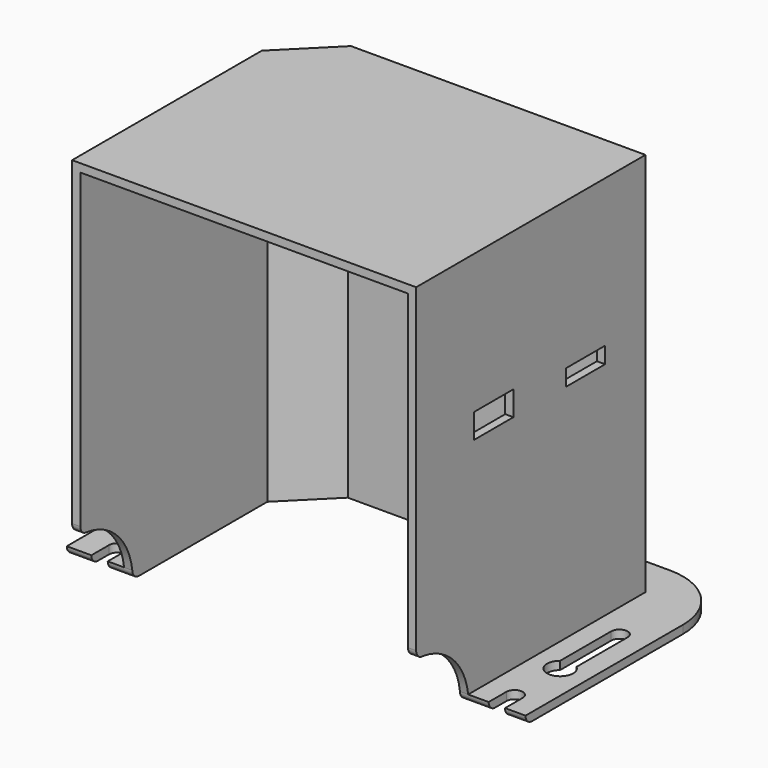
from build123d import *

# Parameters (mm, degrees)
PAD_DEPTH         = 149.225
PAD001_DEPTH      = 3.175
PAD002_DEPTH      = 3.175
POCKET_DEPTH      = 155.6014
POCKET_DEPTH_BACK = 22.226
SKETCH004_W       = 19.05
SKETCH004_H       = 9.525
SKETCH004_H_2     = 6.35
POCKET001_DEPTH   = 3.175
SKETCH005_W       = 41.275
SKETCH005_H       = 19.05
POCKET002_DEPTH   = 111.126


with BuildPart() as part:
    # Sketch → Pad (new body)
    with BuildSketch(Plane.XY):
        Polygon((-133.3754, 0), (-133.3754, 91.9226), (-114.173, 111.125), (0, 111.125), (0, 0), (-3.175, 0), (-3.175, 107.95), (-112.857872, 107.95), (-130.2004, 90.607472), (-130.2004, 0), align=None)
    extrude(amount=PAD_DEPTH)

    # Sketch001 (on Face12 of Pad) → Pad001 (join)
    with BuildSketch(Plane.XY.offset(149.225)):
        Polygon((-114.173, 111.125), (0, 111.125), (0, 0), (-133.3754, 0), (-133.3754, 91.9226), align=None)
    extrude(amount=PAD001_DEPTH)

    # Sketch002 (on Face4 of Pad001) → Pad002 (join)
    with BuildSketch(Plane(origin=(0, 0, 0), x_dir=(1, 0, 0), z_dir=(0, 0, -1))):
        with BuildLine():
            Line((-130.2004, 0), (-130.2004, -90.607472))
            Line((-130.2004, -90.607472), (-112.857872, -107.95))
            Line((-112.857872, -107.95), (-3.175, -107.95))
            Line((-3.175, -107.95), (-3.175, 0))
            Line((-3.175, 0), (6.0325, 0))
            Line((6.0325, 0), (6.0325, -5.08))
            ThreePointArc((6.0325, -5.08), (6.53345, -7.279705), (7.9375, -9.045574))
            Line((7.9375, -9.045574), (7.9375, -33.782))
            ThreePointArc((7.9375, -33.782), (11.1125, -36.957), (14.2875, -33.782))
            Line((14.2875, -33.782), (14.2875, -9.045574))
            ThreePointArc((14.2875, -9.045574), (15.69155, -7.279705), (16.1925, -5.08))
            Line((16.1925, -5.08), (16.1925, 0))
            Line((16.1925, 0), (22.225, 0))
            Line((22.225, 0), (22.225, -101.4984))
            ThreePointArc((-3.175, -126.8984), (14.785512, -119.458912), (22.225, -101.4984))
            Line((-130.2004, -126.8984), (-3.175, -126.8984))
            ThreePointArc((-155.6004, -101.4984), (-148.160912, -119.458912), (-130.2004, -126.8984))
            Line((-155.6004, 0), (-155.6004, -101.4984))
            Line((-155.6004, 0), (-147.9804, 0))
            Line((-147.9804, -5.08), (-147.9804, 0))
            ThreePointArc((-147.9804, -5.08), (-147.47945, -7.279705), (-146.0754, -9.045574))
            Line((-146.0754, -9.045574), (-146.0754, -33.782))
            ThreePointArc((-146.0754, -33.782), (-142.9004, -36.957), (-139.7254, -33.782))
            Line((-139.7254, -33.782), (-139.7254, -9.045574))
            ThreePointArc((-139.7254, -9.045574), (-138.32135, -7.279705), (-137.8204, -5.08))
            Line((-137.8204, -5.08), (-137.8204, 0))
            Line((-137.8204, 0), (-130.2004, 0))
        make_face()
        with BuildLine():
            ThreePointArc((14.2875, -59.845574), (11.1125, -50.8), (7.9375, -59.845574))
            Line((7.9375, -59.845574), (7.9375, -84.582))
            ThreePointArc((7.9375, -84.582), (11.1125, -87.757), (14.2875, -84.582))
            Line((14.2875, -84.582), (14.2875, -59.845574))
        make_face(mode=Mode.SUBTRACT)
        with BuildLine():
            ThreePointArc((-139.7254, -59.845574), (-142.9004, -50.8), (-146.0754, -59.845574))
            Line((-146.0754, -59.845574), (-146.0754, -84.582))
            ThreePointArc((-146.0754, -84.582), (-142.9004, -87.757), (-139.7254, -84.582))
            Line((-139.7254, -84.582), (-139.7254, -59.845574))
        make_face(mode=Mode.SUBTRACT)
    extrude(amount=-PAD002_DEPTH)

    # Sketch003 (on Face48 of Pad002) → Pocket (cut, two sides)
    with BuildSketch(Plane.YZ) as pocket_sk:
        with BuildLine():
            ThreePointArc((25.200781, 3.175), (17.960512, 17.960512), (3.175, 25.200781))
            ThreePointArc((0, 28.375781), (0.929936, 26.130717), (3.175, 25.200781))
            Line((0, 28.375781), (-5, 28.375781))
            Line((-5, 28.375781), (-5, -5))
            Line((-5, -5), (28.375781, -5))
            Line((28.375781, -5), (28.375781, 0))
            ThreePointArc((25.200781, 3.175), (26.130717, 0.929936), (28.375781, 0))
        make_face()
    extrude(amount=-POCKET_DEPTH, mode=Mode.SUBTRACT)
    extrude(pocket_sk.sketch, amount=POCKET_DEPTH_BACK, mode=Mode.SUBTRACT)

    # Sketch004 (on Face38 of Pocket) → Pocket001 (cut)
    with BuildSketch(Plane.YZ):
        with Locations((37.592, 93.6625)):
            Rectangle(SKETCH004_W, SKETCH004_H)
        with Locations((82.042, 92.075)):
            Rectangle(SKETCH004_W, SKETCH004_H_2)
    extrude(amount=-POCKET001_DEPTH, mode=Mode.SUBTRACT)

    # Sketch005 (on Face39 of Pocket001) → Pocket002 (cut, through all)
    with BuildSketch(Plane(origin=(0, 111.125, 0), x_dir=(-1, 0, 0), z_dir=(0, 1, 0))):
        with Locations((82.5627, 128.6002)):
            Rectangle(SKETCH005_W, SKETCH005_H)
    extrude(amount=-POCKET002_DEPTH, mode=Mode.SUBTRACT)


solid = part.part
